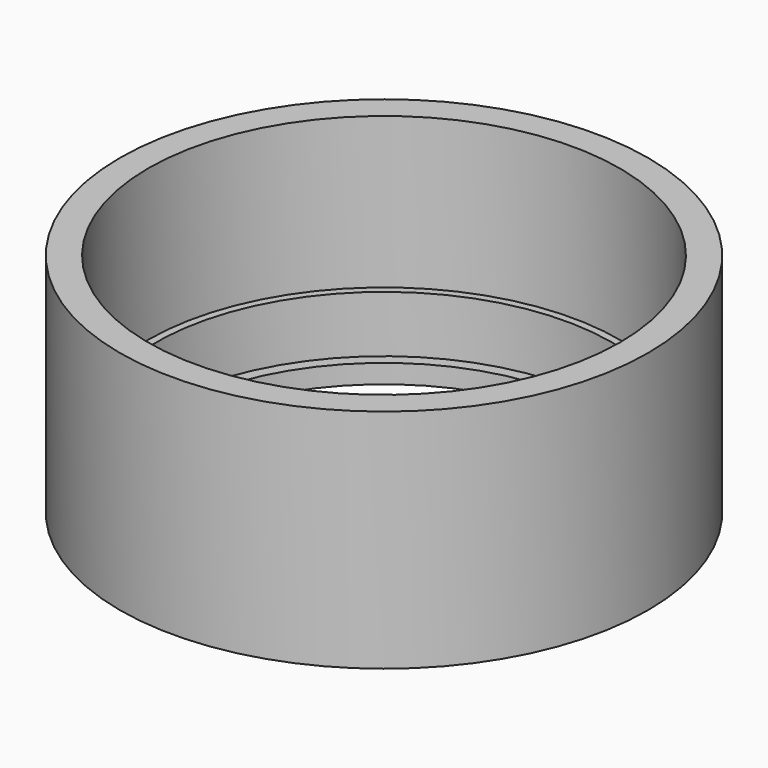
from build123d import *

# Parameters (mm, degrees)
CYLINDER011_R     = 6.25
CYLINDER011_DEPTH = 10
CYLINDER010_R     = 6.05
CYLINDER010_DEPTH = 10
CYLINDER009_R     = 5.75
CYLINDER009_DEPTH = 10
CYLINDER008_R     = 7
CYLINDER008_DEPTH = 6


with BuildPart() as bluetmp06:
    # Cylinder011 → Cylinder011 (new body)
    with BuildSketch(Plane.XY.offset(2)):
        Circle(CYLINDER011_R)
    extrude(amount=CYLINDER011_DEPTH)


with BuildPart() as bluetmp04:
    # Cylinder010 → Cylinder010 (new body)
    with BuildSketch(Plane.XY.offset(0.5)):
        Circle(CYLINDER010_R)
    extrude(amount=CYLINDER010_DEPTH)


with BuildPart() as bluetmp02:
    # Cylinder009 → Cylinder009 (new body)
    with BuildSketch(Plane.XY):
        Circle(CYLINDER009_R)
    extrude(amount=CYLINDER009_DEPTH)


with BuildPart() as blueholder:
    # Cylinder008 → Cylinder008 (new body)
    with BuildSketch(Plane.XY):
        Circle(CYLINDER008_R)
    extrude(amount=CYLINDER008_DEPTH)

    # Cut005: cut BlueTmp02
    add(bluetmp02.part, mode=Mode.SUBTRACT)

    # Cut006: cut BlueTmp04
    add(bluetmp04.part, mode=Mode.SUBTRACT)

    # Cut007: cut BlueTmp06
    add(bluetmp06.part, mode=Mode.SUBTRACT)


with BuildPart() as blueholder_1:
    # Cut007 placement: moved
    add(blueholder.part.moved(Location((-10, 40, 0))))


solid = blueholder_1.part
